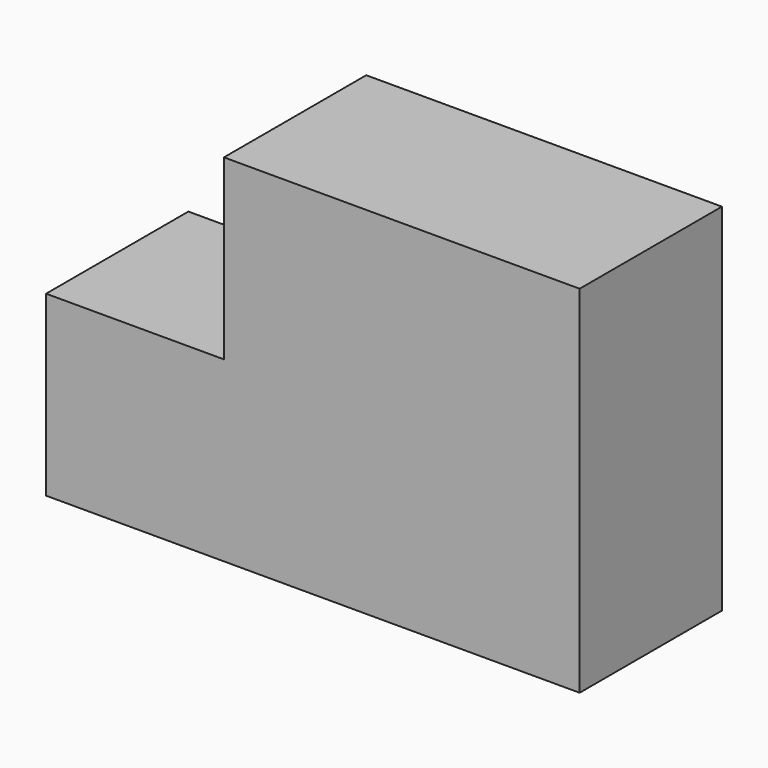
from build123d import *

# Parameters (mm, degrees)
F0_W     = 19.05
F0_H     = 19.05
F1_DEPTH = 19.05


with BuildPart() as f1:
    # F0 (on Front) → F1 (new body)
    with BuildSketch(Plane.XZ):
        Rectangle(F0_W, F0_H)
        with Locations((19.05, 0)):
            Rectangle(F0_W, F0_H)
        with Locations((19.05, 19.05)):
            Rectangle(F0_W, F0_H)
        with Locations((0, 19.05)):
            Rectangle(F0_W, F0_H)
        with Locations((-19.05, 0)):
            Rectangle(F0_W, F0_H)
    extrude(amount=F1_DEPTH)


solid = f1.part
